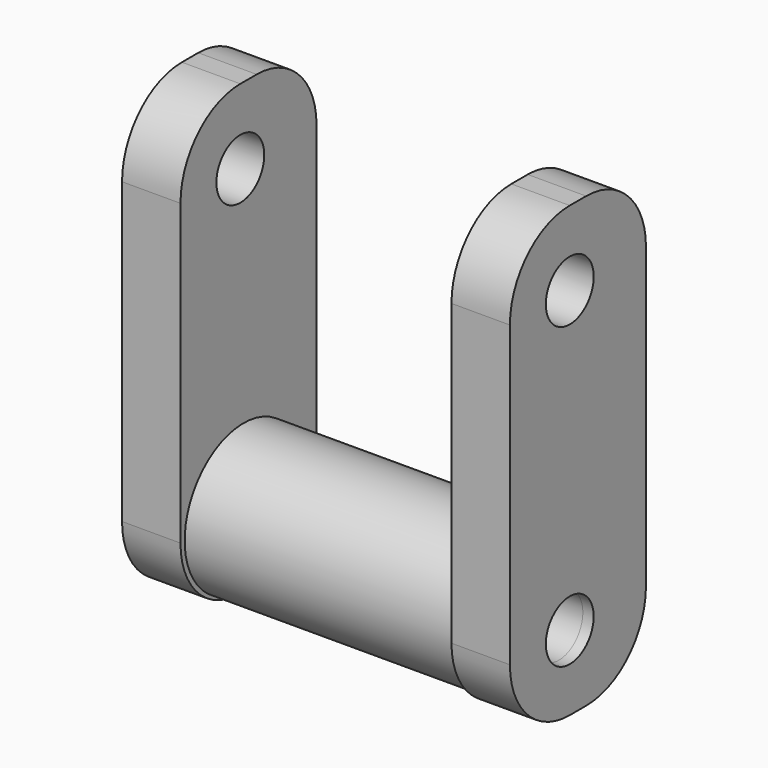
from build123d import *

# Parameters (mm, degrees)
F0_W     = 9.926051
F0_H     = 28.875791
F1_DEPTH = 76.2
F2_R     = 12.7
F3_R     = 12.501613
F4_DEPTH = 54.102
F6_D     = 10.16
F6_2_D   = 10.16


with BuildPart() as f1:
    # F0 (on Top) → F1 (new body)
    with BuildSketch(Plane.XY):
        with Locations((-27.97342, 1.052764)):
            Rectangle(F0_W, F0_H)
        with Locations((27.97342, 1.052764)):
            Rectangle(F0_W, F0_H)
    extrude(amount=F1_DEPTH)

    # F2
    f2_edges = [f1.edges().sort_by_distance(p)[0] for p in [
        (-27.973421, 15.490659, 76.2),
        (-27.973421, -13.385132, 76.2),
        (27.973421, 15.490659, 76.2),
        (27.973421, -13.385132, 76.2),
        (27.973421, -13.385132, 0),
        (-27.973421, -13.385132, 0),
        (-27.973421, 15.490659, 0),
        (27.973421, 15.490659, 0),
    ]]
    fillet(f2_edges, radius=F2_R)

    # F6 (through all)
    with Locations(Plane.YZ.offset(32.936446)):
        with Locations((-0.685132, 12.7), (-0.685132, 63.5)):
            Hole(F6_D / 2)


with BuildPart() as f4:
    # F3 (on face) → F4 (new body)
    with BuildSketch(Plane.YZ.offset(-23.010395)):
        with Locations((0, 12.7)):
            Circle(F3_R)
    extrude(amount=F4_DEPTH)

    # F6#2 (through all)
    with Locations(Plane.YZ.offset(32.936446)):
        with Locations((-0.685132, 12.7), (-0.685132, 63.5)):
            Hole(F6_2_D / 2)


solid = Compound([f1.part, f4.part])
